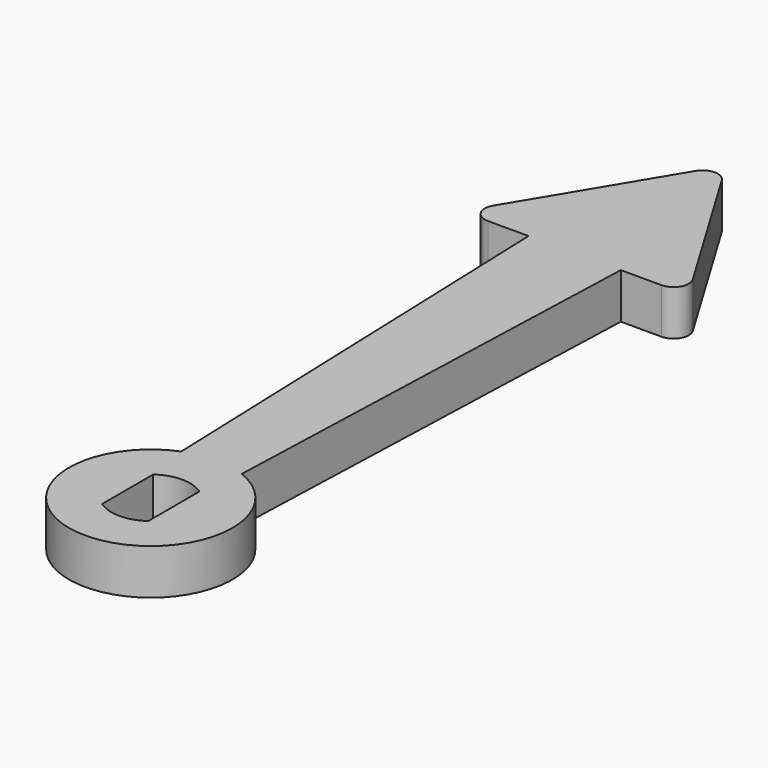
from build123d import *

# Parameters (mm, degrees)
F0_R     = 5.4
F1_DEPTH = 1.5
F3_DEPTH = 1.5
F5_DEPTH = 3
F6_R     = 1


with BuildPart() as f1:
    # F0 (on Top) → F1 (new body, symmetric)
    with BuildSketch(Plane.XY):
        Circle(F0_R)
        with BuildLine():
            ThreePointArc((1.525, 2.105796), (2.315707, 1.182159), (2.6, 0))
            ThreePointArc((2.6, 0), (2.315707, -1.182159), (1.525, -2.105796))
            ThreePointArc((1.525, -2.105796), (0, -2.6), (-1.525, -2.105796))
            ThreePointArc((-1.525, -2.105796), (-2.6, 0), (-1.525, 2.105796))
            ThreePointArc((-1.525, 2.105796), (0, 2.6), (1.525, 2.105796))
        make_face(mode=Mode.SUBTRACT)
        with BuildLine():
            ThreePointArc((1.525, -2.105796), (2.315707, -1.182159), (2.6, 0))
            ThreePointArc((2.6, 0), (2.315707, 1.182159), (1.525, 2.105796))
            Line((1.525, 2.105796), (1.525, -2.105796))
        make_face()
        with BuildLine():
            Line((-1.525, -2.105796), (-1.525, 2.105796))
            ThreePointArc((-1.525, 2.105796), (-2.6, 0), (-1.525, -2.105796))
        make_face()
    extrude(amount=F1_DEPTH, both=True)

    # F2 (on Top) → F3 (join, symmetric)
    with BuildSketch(Plane.XY):
        Polygon((-2, 5.015974), (0, 5.015974), (2, 5.015974), (3.047065, 35), (0, 35), (-3.047065, 35), align=None)
    extrude(amount=F3_DEPTH, both=True)

    # F4 (on face) → F5 (join, through all)
    with BuildSketch(Plane.XY.offset(1.5)):
        Polygon((0, 47.5), (-7.5, 35), (7.5, 35), align=None)
    extrude(amount=-F5_DEPTH)

    # F6
    f6_edges = [f1.edges().sort_by_distance(p)[0] for p in [
        (-7.5, 35, 0),
        (0, 47.5, 0),
        (7.5, 35, 0),
    ]]
    fillet(f6_edges, radius=F6_R)


solid = f1.part
